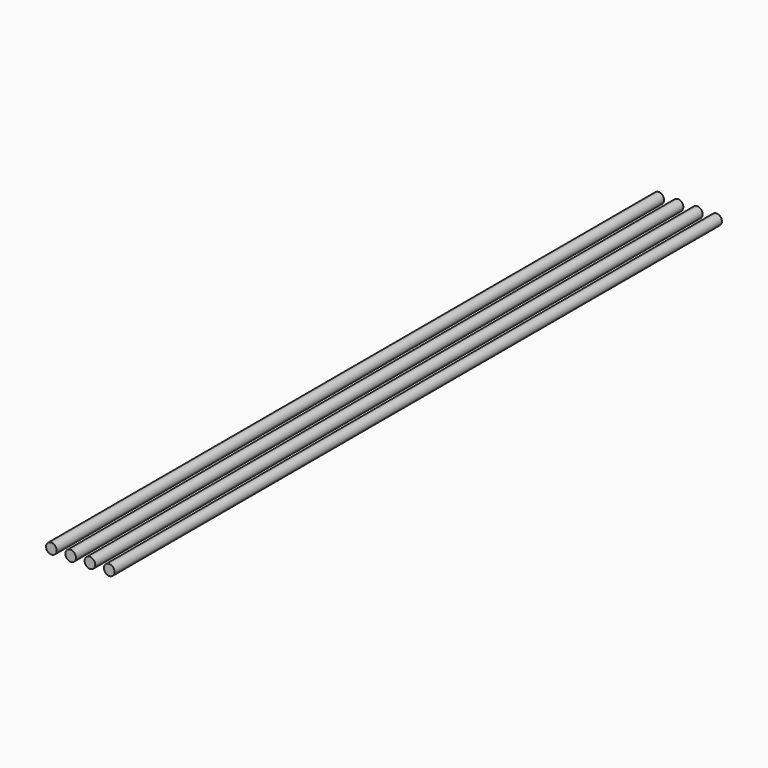
from build123d import *

# Parameters (mm, degrees)
F0_R     = 1.4
F1_DEPTH = 100


with BuildPart() as f1:
    # F0 (on Front) → F1 (new body, symmetric)
    with BuildSketch(Plane.XZ):
        with Locations((-7.62, 0)):
            Circle(F0_R)
    extrude(amount=F1_DEPTH, both=True)


with BuildPart() as f1b:
    # F0 (on Front) → F1, piece 2 (new body, symmetric)
    with BuildSketch(Plane.XZ):
        with Locations((-2.54, 0)):
            Circle(F0_R)
    extrude(amount=F1_DEPTH, both=True)


with BuildPart() as f1c:
    # F0 (on Front) → F1, piece 3 (new body, symmetric)
    with BuildSketch(Plane.XZ):
        with Locations((2.54, 0)):
            Circle(F0_R)
    extrude(amount=F1_DEPTH, both=True)


with BuildPart() as f1d:
    # F0 (on Front) → F1, piece 4 (new body, symmetric)
    with BuildSketch(Plane.XZ):
        with Locations((7.62, 0)):
            Circle(F0_R)
    extrude(amount=F1_DEPTH, both=True)


solid = Compound([f1.part, f1b.part, f1c.part, f1d.part])
